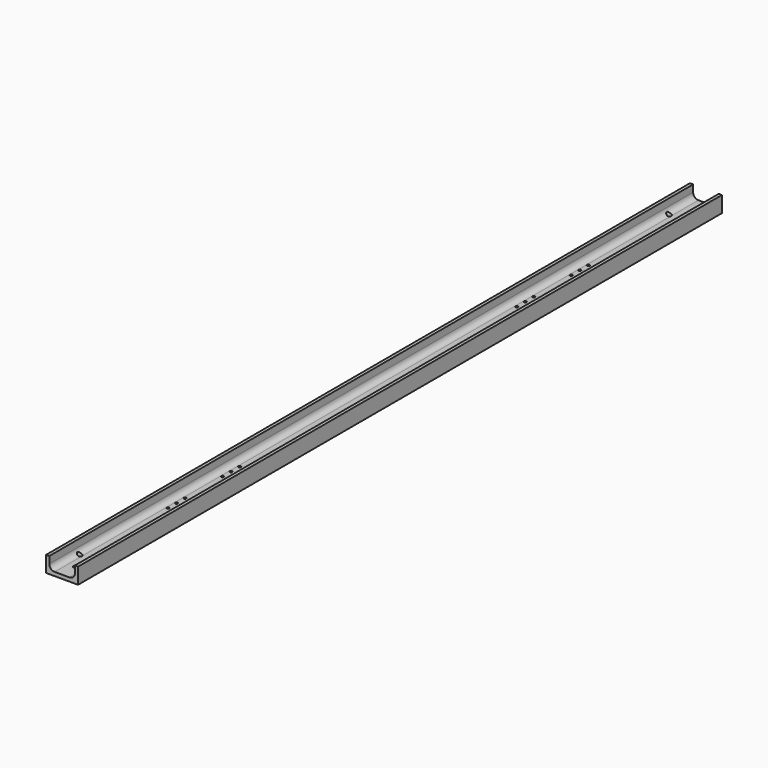
from build123d import *

# Parameters (mm, degrees)
F1_DEPTH = 377.5
F2_R     = 5
F3_R     = 5
F5_D     = 4.2
F7_D     = 2.5


with BuildPart() as f1:
    # F0 (on Front) → F1 (new body)
    with BuildSketch(Plane.XZ):
        Polygon((0, 15), (0, 0), (30, 0), (30, 15), (27, 15), (27, 3.5), (3, 3.5), (3, 15), align=None)
    extrude(amount=F1_DEPTH)

    # F2
    f2_edges = [f1.edges().sort_by_distance(p)[0] for p in [
        (3, -188.75, 3.5),
    ]]
    fillet(f2_edges, radius=F2_R)

    # F3
    f3_edges = [f1.edges().sort_by_distance(p)[0] for p in [
        (27, -188.75, 3.5),
    ]]
    fillet(f3_edges, radius=F3_R)

    # F5 (through all)
    with Locations(Plane(origin=(0, 0, 0), x_dir=(1, 0, 0), z_dir=(0, 0, -1))):
        with Locations((24, 32), (15, 16), (6, 32)):
            Hole(F5_D / 2)

    # F7 (through all)
    with Locations(Plane(origin=(0, 0, 0), x_dir=(1, 0, 0), z_dir=(0, 0, -1))):
        with Locations((20.5, 151), (20.5, 141), (20.5, 131), (15, 146), (15, 136), (9.5, 151), (9.5, 141), (9.5, 131), (20.5, 215), (20.5, 205), (20.5, 195), (15, 210), (15, 200), (9.5, 215), (9.5, 205), (9.5, 195)):
            Hole(F7_D / 2)

    # F8: F1 across face


with BuildPart() as f1_1:
    add(f1.part)
    add(f1.part.mirror(Plane(origin=(15, -377.5, 4.7179054872), x_dir=(1, 0, 0), z_dir=(0, -1, 0))))


solid = f1_1.part
